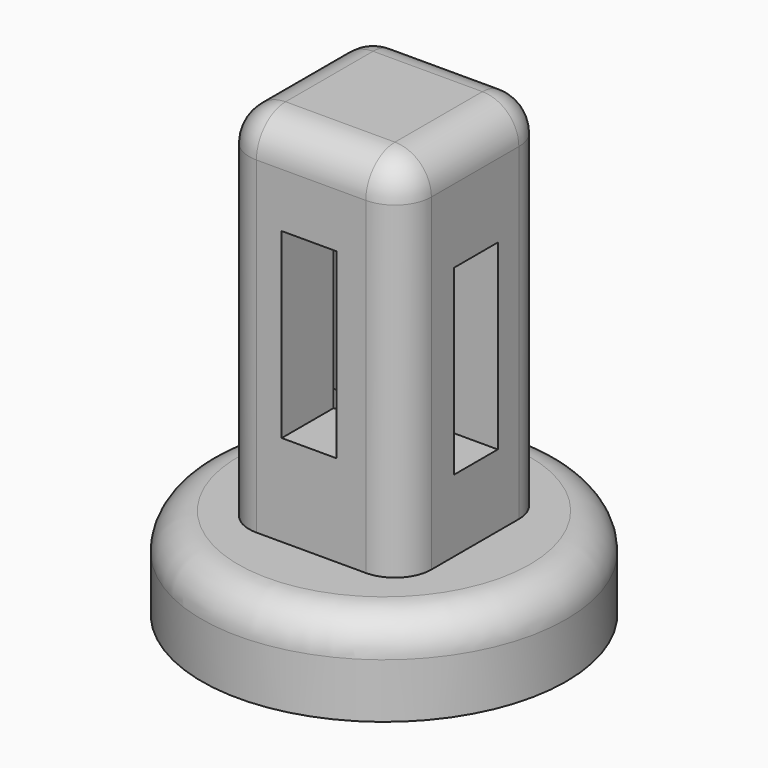
from build123d import *

# Parameters (mm, degrees)
F0_R     = 25.4
F1_DEPTH = 12.7
F2_W     = 25.4
F2_H     = 25.4
F3_DEPTH = 50.8
F4_R     = 5.08
F5_W     = 7.62
F5_H     = 25.4
F6_DEPTH = 25.4
F7_W     = 7.62
F7_H     = 25.4
F8_DEPTH = 25.4


with BuildPart() as f1:
    # F0 (on Top) → F1 (new body)
    with BuildSketch(Plane.XY):
        Circle(F0_R)
    extrude(amount=F1_DEPTH)

    # F2 (on face) → F3 (join)
    with BuildSketch(Plane.XY.offset(12.7)):
        Rectangle(F2_W, F2_H)
    extrude(amount=F3_DEPTH)

    # F4
    f4_edges = [f1.edges().sort_by_distance(p)[0] for p in [
        (12.7, -12.7, 38.1),
        (-12.7, -12.7, 38.1),
        (12.7, 12.7, 38.1),
        (-12.7, 12.7, 38.1),
        (-25.4, 0, 12.7),
        (-12.7, 0, 63.5),
        (0, -12.7, 63.5),
        (12.7, 0, 63.5),
        (0, 12.7, 63.5),
    ]]
    fillet(f4_edges, radius=F4_R)

    # F5 (on face) → F6 (cut)
    with BuildSketch(Plane.YZ.offset(12.7)):
        with Locations((0.143903, 35.440086)):
            Rectangle(F5_W, F5_H)
    extrude(amount=-F6_DEPTH, mode=Mode.SUBTRACT)

    # F7 (on face) → F8 (cut)
    with BuildSketch(Plane(origin=(0, 12.7, 0), x_dir=(-1, 0, 0), z_dir=(0, 1, 0))):
        with Locations((0.287806, 38.145431)):
            Rectangle(F7_W, F7_H)
    extrude(amount=-F8_DEPTH, mode=Mode.SUBTRACT)


solid = f1.part
